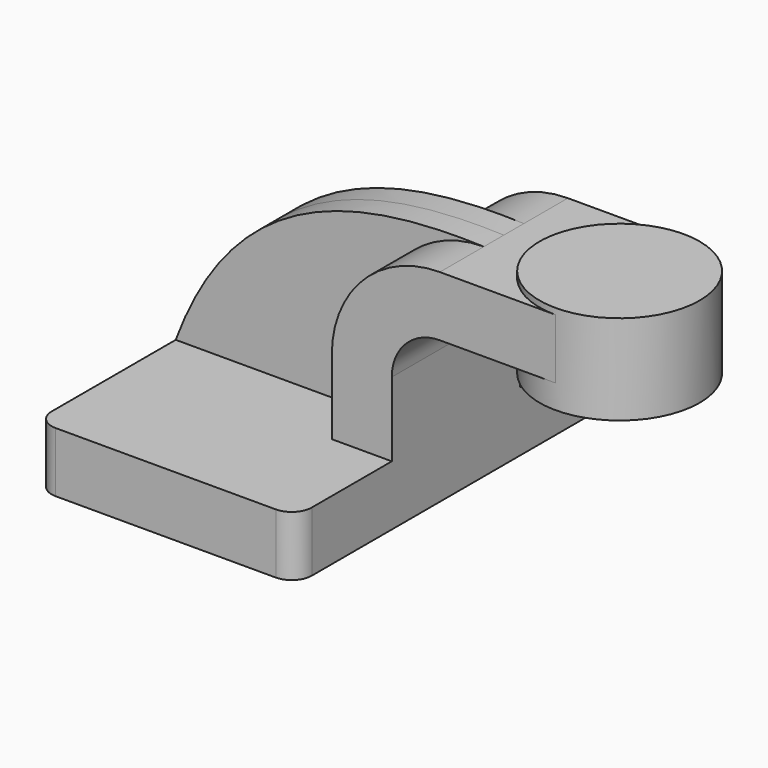
from build123d import *

# Parameters (mm, degrees)
F1_DEPTH = 63.5
F0_W     = 25.4
F0_H     = 19.05
F2_DEPTH = 25.4
F3_DEPTH = 7.9375
F0_H_2   = 7.599701224
F0_H_3   = 1.925298776
F5_R     = 6.35


with BuildPart() as f1:
    # F0 (on Front) → F1 (new body, symmetric)
    with BuildSketch(Plane.XZ):
        Polygon((-41.275, 9.525), (-41.275, -9.525), (41.275, -9.525), (41.275, 9.525), (22.225, 9.525), align=None)
    extrude(amount=F1_DEPTH, both=True)

    # F0 (on Front) → F2 (join, symmetric)
    with BuildSketch(Plane.XZ):
        with BuildLine():
            Line((22.225, 9.525), (41.275, 9.525))
            Line((41.275, 9.525), (41.275, 33.0692907344))
            ThreePointArc((41.275, 33.0692907344), (45.7386926547, 43.8455980797), (56.515, 48.3092907344))
            Line((56.515, 48.3092907344), (67.8493125877, 48.3092907344))
            Line((67.8493125877, 48.3092907344), (67.8493125877, 67.3592907344))
            Line((67.8493125877, 67.3592907344), (56.515, 67.3592907344))
            ThreePointArc((56.515, 67.3592907344), (32.2683084731, 57.3159822613), (22.225, 33.0692907344))
            Line((22.225, 33.0692907344), (22.225, 9.525))
        make_face()
        with Locations((80.5493125877, 57.8342907344)):
            Rectangle(F0_W, F0_H)
    extrude(amount=F2_DEPTH, both=True)

    # F0 (on Front) → F3 (join, symmetric)
    with BuildSketch(Plane.XZ):
        with BuildLine():
            add(Edge.make_bspline(
                [(-41.275, 9.525), (-22.9515824467, 59.1003261507), (14.3447369337, 68.8547492027), (56.515, 67.3592907344)],
                knots=[0, 0, 0, 0, 113.6120120619, 113.6120120619, 113.6120120619, 113.6120120619], degree=3))
            Line((-41.275, 9.525), (22.225, 9.525))
            Line((22.225, 9.525), (22.225, 33.0692907344))
            ThreePointArc((22.225, 33.0692907344), (32.2683084731, 57.3159822613), (56.515, 67.3592907344))
        make_face()
    extrude(amount=F3_DEPTH, both=True)

    # F0 (on Front) → F4 (revolve)
    with BuildSketch(Plane.XZ):
        with Locations((105.9493125877, 44.5094401224)):
            Rectangle(F0_W, F0_H_2)
        with Locations((105.9493125877, 57.8342907344)):
            Rectangle(F0_W, F0_H)
        with Locations((105.9493125877, 68.3219401224)):
            Rectangle(F0_W, F0_H_3)
    revolve(axis=Axis((93.2493125877, 0, 54.9970895104), (0, 0, 1)))

    # F5
    f5_edges = [f1.edges().sort_by_distance(p)[0] for p in [
        (-41.275, -63.5, 0),
        (41.275, -63.5, 0),
        (41.275, 63.5, 0),
        (-41.275, 63.5, 0),
    ]]
    fillet(f5_edges, radius=F5_R)


solid = f1.part
